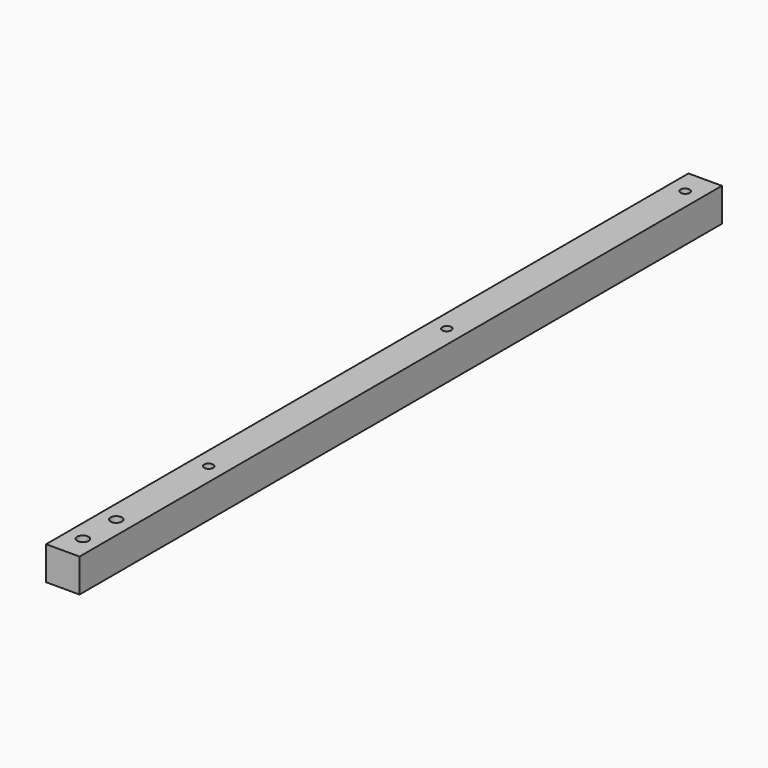
from build123d import *

# Parameters (mm, degrees)
F0_W     = 12.7
F0_H     = 12.7
F1_DEPTH = 304.8
F3_D     = 3.4544
F5_D     = 4.318


with BuildPart() as f1:
    # F0 (on Front) → F1 (new body)
    with BuildSketch(Plane.XZ):
        with Locations((6.35, 6.35)):
            Rectangle(F0_W, F0_H)
    extrude(amount=F1_DEPTH)

    # F3 (through all)
    with Locations(Plane.XY.offset(12.7)):
        with Locations((6.35, -9.525), (6.35, -122.555), (6.35, -235.585)):
            Hole(F3_D / 2)

    # F5 (through all)
    with Locations(Plane.XY.offset(12.7)):
        with Locations((6.35, -295.275), (6.35, -279.4)):
            Hole(F5_D / 2)


solid = f1.part
